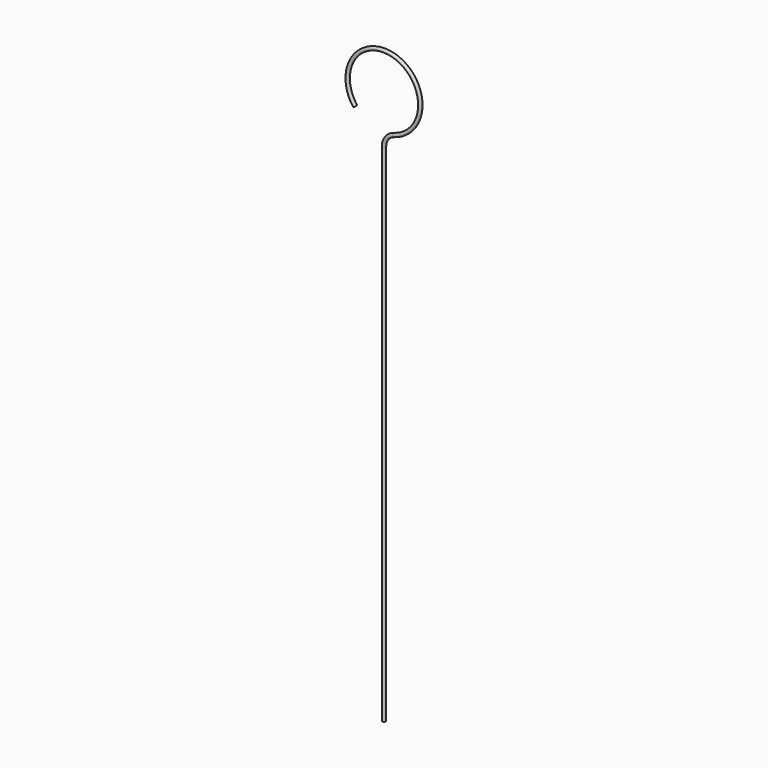
from build123d import *

# Parameters (mm, degrees)
F2_R = 0.25


with BuildPart() as f3:
    # F3: sweep along a path in F0
    with BuildLine(Plane.XZ) as f3_path:
        Line((0, -80), (0, -6.96868))
        ThreePointArc((0, -6.96868), (0.402588, -5.765237), (1.448276, -5.046285))
        ThreePointArc((1.448276, -5.046285), (1.626351, 4.991741), (-4.143, -3.224601))
    # F2 (on face) → F3 (sweep)
    with BuildSketch(Plane(origin=(0, 0, -80), x_dir=(1, 0, 0), z_dir=(0, 0, -1))):
        Circle(F2_R)
    sweep(path=f3_path.line)


solid = f3.part
